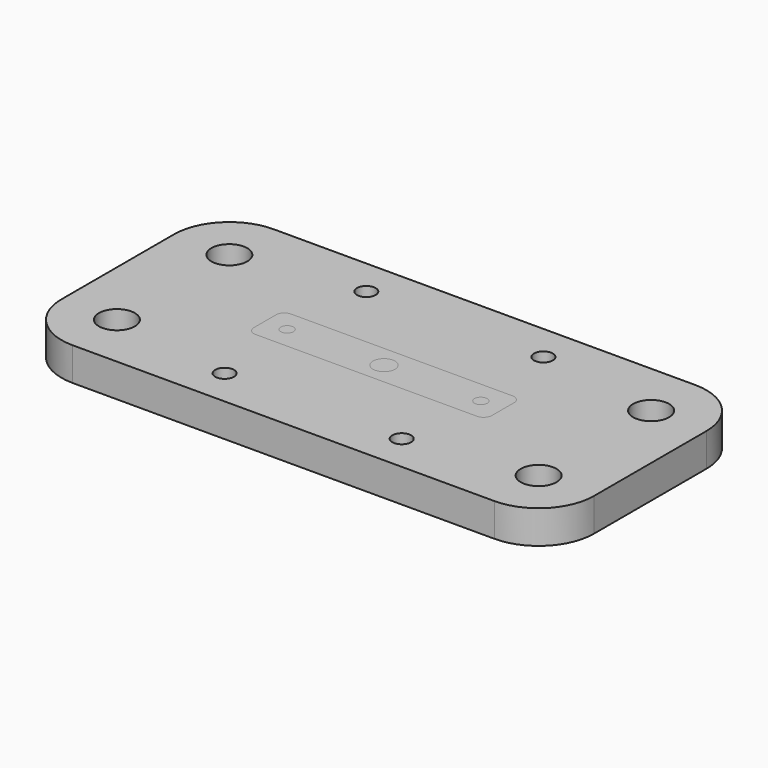
from build123d import *

# Parameters (mm, degrees)
SKETCH_R      = 3.25
SKETCH_R_2    = 1.7
PAD_DEPTH     = 6
SKETCH001_R   = 1.15
SKETCH001_R_2 = 2
PAD001_DEPTH  = 6


with BuildPart() as body:
    # Sketch → Pad (new body)
    with BuildSketch(Plane.XY):
        with BuildLine():
            ThreePointArc((-38.1, 22.7), (-45.171068, 19.771068), (-48.1, 12.7))
            Line((-48.1, -12.7), (-48.1, 12.7))
            ThreePointArc((-48.1, -12.7), (-45.171068, -19.771068), (-38.1, -22.7))
            Line((38.1, -22.7), (-38.1, -22.7))
            ThreePointArc((38.1, -22.7), (45.171068, -19.771068), (48.1, -12.7))
            Line((48.1, 12.7), (48.1, -12.7))
            ThreePointArc((48.1, 12.7), (45.171068, 19.771068), (38.1, 22.7))
            Line((-38.1, 22.7), (38.1, 22.7))
        make_face()
        with Locations((-38.1, 12.7)):
            Circle(SKETCH_R, mode=Mode.SUBTRACT)
        with Locations((38.1, 12.7)):
            Circle(SKETCH_R, mode=Mode.SUBTRACT)
        with Locations((38.1, -12.7)):
            Circle(SKETCH_R, mode=Mode.SUBTRACT)
        with Locations((-38.1, -12.7)):
            Circle(SKETCH_R, mode=Mode.SUBTRACT)
        with Locations((-16, 16)):
            Circle(SKETCH_R_2, mode=Mode.SUBTRACT)
        with Locations((16, 16)):
            Circle(SKETCH_R_2, mode=Mode.SUBTRACT)
        with Locations((16, -16)):
            Circle(SKETCH_R_2, mode=Mode.SUBTRACT)
        with Locations((-16, -16)):
            Circle(SKETCH_R_2, mode=Mode.SUBTRACT)
    extrude(amount=PAD_DEPTH)


with BuildPart() as body001:
    # Sketch001 → Pad001 (new body)
    with BuildSketch(Plane.XY):
        with BuildLine():
            ThreePointArc((-20, 4), (-21.06066, 3.56066), (-21.5, 2.5))
            Line((-21.5, -2.5), (-21.5, 2.5))
            ThreePointArc((-21.5, -2.5), (-21.06066, -3.56066), (-20, -4))
            Line((20, -4), (-20, -4))
            ThreePointArc((20, -4), (21.06066, -3.56066), (21.5, -2.5))
            Line((21.5, 2.5), (21.5, -2.5))
            ThreePointArc((21.5, 2.5), (21.06066, 3.56066), (20, 4))
            Line((-20, 4), (20, 4))
        make_face()
        with Locations((-17.5, 0)):
            Circle(SKETCH001_R, mode=Mode.SUBTRACT)
        with Locations((17.5, 0)):
            Circle(SKETCH001_R, mode=Mode.SUBTRACT)
        Circle(SKETCH001_R_2, mode=Mode.SUBTRACT)
    extrude(amount=PAD001_DEPTH)


solid = Compound([body.part, body001.part])
